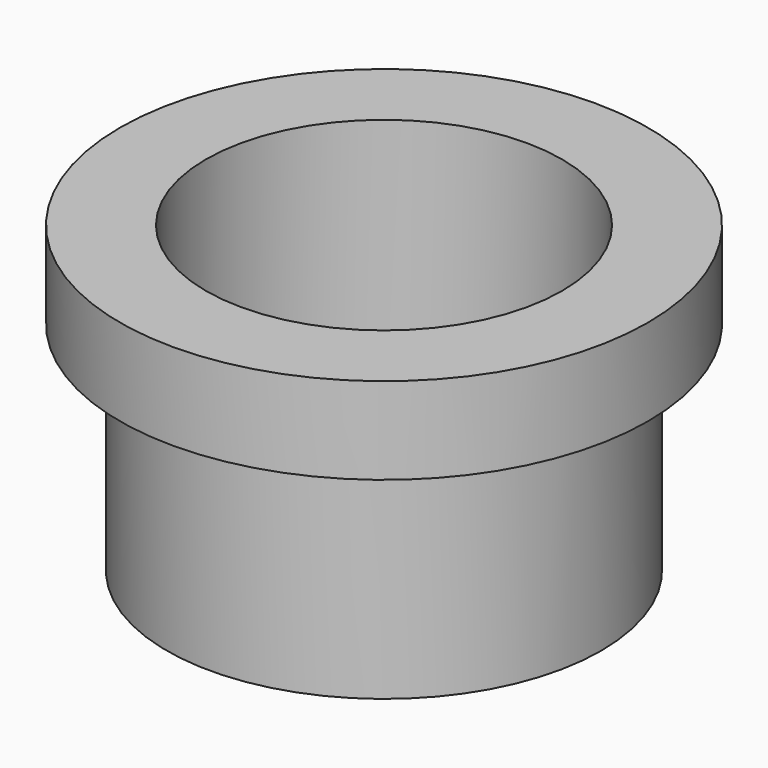
from build123d import *

# Parameters (mm, degrees)
F0_R     = 6.35
F0_R_2   = 5.207
F1_DEPTH = 6.35
F2_R     = 7.7175141939
F2_R_2   = 6.35
F3_DEPTH = 2.54
F4_DEPTH = 2.54


with BuildPart() as f1:
    # F0 (on Top) → F1 (new body)
    with BuildSketch(Plane.XY):
        Circle(F0_R)
        Circle(F0_R_2, mode=Mode.SUBTRACT)
    extrude(amount=F1_DEPTH)

    # F2 (on face) → F3 (join)
    with BuildSketch(Plane.XY.offset(6.35)):
        Circle(F2_R)
        Circle(F2_R_2, mode=Mode.SUBTRACT)
    extrude(amount=F3_DEPTH)

    # F4 (add): a face of the model
    f4_faces = [f1.faces().sort_by_distance(p)[0] for p in [
        (-6.1703948776, 0, 6.35),
    ]]
    extrude(f4_faces, amount=F4_DEPTH)


solid = f1.part
